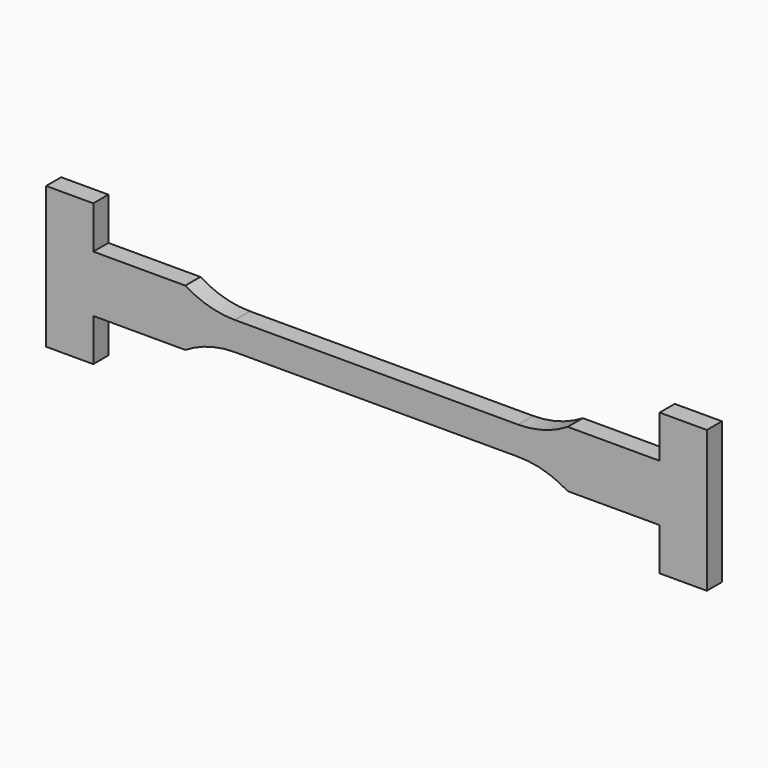
from build123d import *

# Parameters (mm, degrees)
F1_DEPTH = 2


with BuildPart() as f1:
    # F0 (on Front) → F1 (new body)
    with BuildSketch(Plane.XZ):
        with BuildLine():
            ThreePointArc((20.248641, 3), (17.728768, 1.884976), (15.000243, 1.500024))
            Line((15.000243, 1.500024), (14.961403, 1.500024))
            Line((14.961403, 1.500024), (-14.999757, 1.500024))
            ThreePointArc((-14.999757, 1.500024), (-15.020091, 1.499928), (-15.040424, 1.500107))
            ThreePointArc((-15.040424, 1.500107), (-17.757895, 1.887914), (-20.267538, 3))
            Line((-20.267538, 3), (-30.01704, 3))
            Line((-30.01704, 3), (-30.020559, 7.5))
            Line((-30.020559, 7.5), (-35.020559, 7.5))
            Line((-35.020559, 7.5), (-35.020559, -7.5))
            Line((-35.020559, -7.5), (-30.020559, -7.5))
            Line((-30.020559, -7.5), (-30.01704, -3))
            Line((-30.01704, -3), (-20.268031, -3))
            ThreePointArc((-20.268031, -3), (-17.757834, -1.887757), (-15.039766, -1.500102))
            ThreePointArc((-15.039766, -1.500102), (-15.020005, -1.499933), (-15.000243, -1.500024))
            Line((-15.000243, -1.500024), (14.961889, -1.500024))
            Line((14.961889, -1.500024), (14.980823, -1.500024))
            Line((14.980823, -1.500024), (14.999757, -1.500024))
            ThreePointArc((14.999757, -1.500024), (17.728534, -1.88491), (20.24864, -3))
            Line((20.24864, -3), (29.980823, -3))
            Line((29.980823, -3), (29.986413, -7.5))
            Line((29.986413, -7.5), (34.986413, -7.5))
            Line((34.986413, -7.5), (34.986413, 7.5))
            Line((34.986413, 7.5), (29.986413, 7.5))
            Line((29.986413, 7.5), (29.980823, 3))
            Line((29.980823, 3), (20.248641, 3))
        make_face()
    extrude(amount=F1_DEPTH)


solid = f1.part
